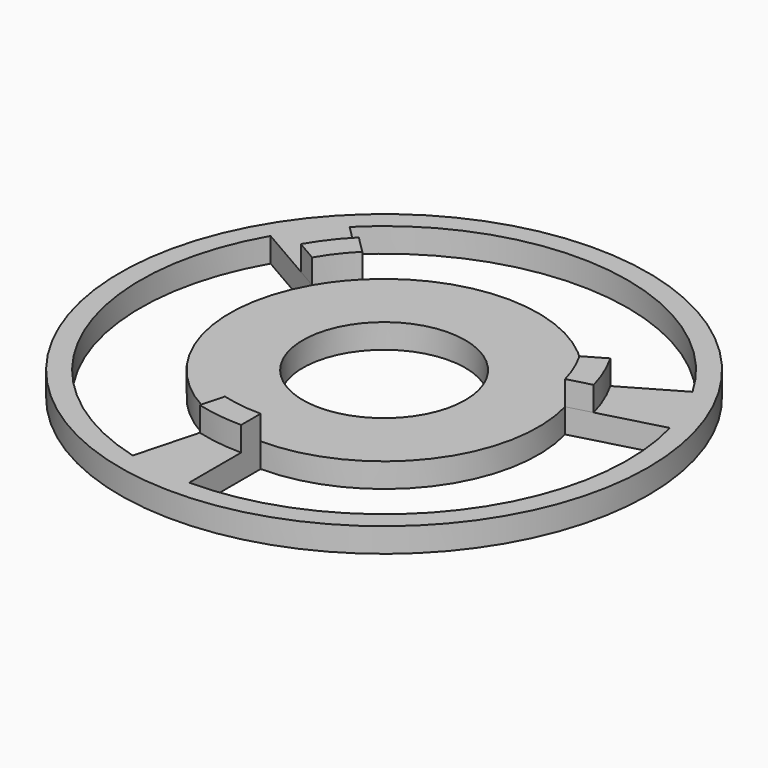
from build123d import *

# Parameters (mm, degrees)
F0_R     = 32.5
F0_R_2   = 10
F1_DEPTH = 3
F3_DEPTH = 3


with BuildPart() as f1:
    # F0 (on Top) → F1 (new body)
    with BuildSketch(Plane.XY):
        Circle(F0_R)
        with BuildLine():
            ThreePointArc((-7.764571, -28.977775), (-27.716386, -11.480503), (-25.980762, 15))
            Line((-25.980762, 15), (-16.454483, 9.5))
            ThreePointArc((-16.454483, 9.5), (-17.553711, -7.270985), (-4.917562, -18.352591))
            Line((-4.917562, -18.352591), (-7.764571, -28.977775))
        make_face(mode=Mode.SUBTRACT)
        with BuildLine():
            Line((0, -30), (0, -19))
            ThreePointArc((0, -19), (15.073713, -11.566467), (18.352591, 4.917562))
            Line((18.352591, 4.917562), (28.977775, 7.764571))
            ThreePointArc((28.977775, 7.764571), (23.8006, -18.262843), (0, -30))
        make_face(mode=Mode.SUBTRACT)
        Circle(F0_R_2, mode=Mode.SUBTRACT)
        with BuildLine():
            Line((25.980762, 15), (16.454483, 9.5))
            ThreePointArc((16.454483, 9.5), (2.479998, 18.837452), (-13.435029, 13.435029))
            Line((-13.435029, 13.435029), (-21.213203, 21.213203))
            ThreePointArc((-21.213203, 21.213203), (3.915786, 29.743346), (25.980762, 15))
        make_face(mode=Mode.SUBTRACT)
    extrude(amount=F1_DEPTH)

    # F2 (on face) → F3 (join)
    with BuildSketch(Plane.XY.offset(3)):
        with BuildLine():
            ThreePointArc((0, -19), (-2.479998, -18.837452), (-4.917562, -18.352591))
            Line((-4.917562, -18.352591), (-5.694019, -21.250368))
            ThreePointArc((-5.694019, -21.250368), (-2.871576, -21.811787), (0, -22))
            Line((0, -22), (0, -19))
        make_face()
        with BuildLine():
            Line((-19.052559, 11), (-16.454483, 9.5))
            ThreePointArc((-16.454483, 9.5), (-15.073713, 11.566467), (-13.435029, 13.435029))
            Line((-13.435029, 13.435029), (-15.556349, 15.556349))
            ThreePointArc((-15.556349, 15.556349), (-17.453773, 13.392751), (-19.052559, 11))
        make_face()
        with BuildLine():
            Line((19.052559, 11), (16.454483, 9.5))
            ThreePointArc((16.454483, 9.5), (17.553711, 7.270985), (18.352591, 4.917562))
            Line((18.352591, 4.917562), (21.250368, 5.694019))
            ThreePointArc((21.250368, 5.694019), (20.32535, 8.419036), (19.052559, 11))
        make_face()
    extrude(amount=F3_DEPTH)


solid = f1.part
